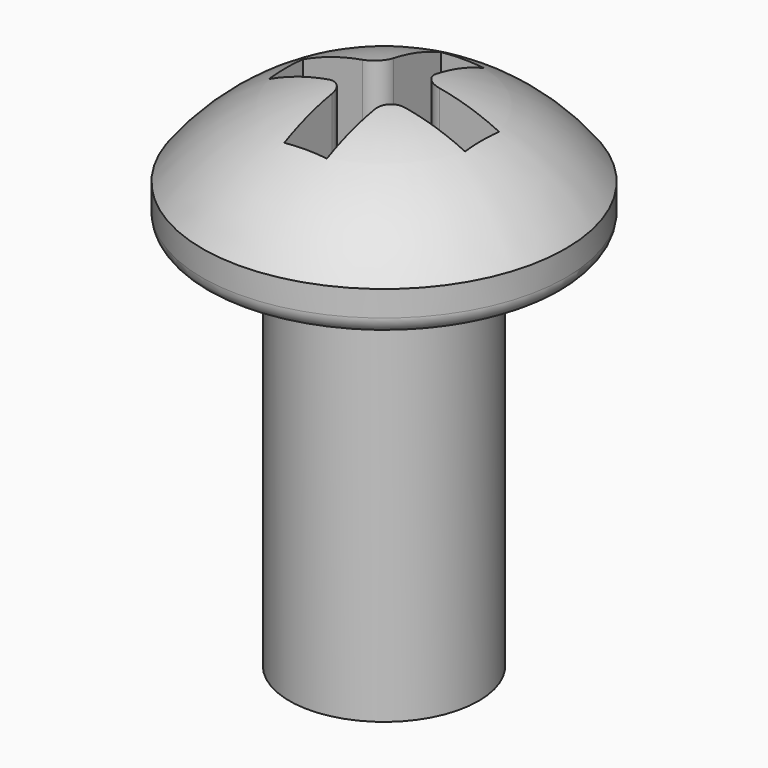
from build123d import *

# Parameters (mm, degrees)
F0_R     = 1.4097
F1_DEPTH = 5.715
F6_DEPTH = 1.6002
F7_R     = 0.254
F8_R     = 0.254


with BuildPart() as f1:
    # F0 (on Top) → F1 (new body)
    with BuildSketch(Plane.XY):
        Circle(F0_R)
    extrude(amount=F1_DEPTH)

    # F2 (on Right) → F3 (revolve)
    with BuildSketch(Plane.YZ):
        with BuildLine():
            Line((-2.7051, 5.715), (0, 5.715))
            Line((0, 5.715), (0, 7.6962))
            ThreePointArc((0, 7.6962), (-1.51078, 7.341052), (-2.7051, 6.35))
            Line((-2.7051, 6.35), (-2.7051, 5.715))
        make_face()
    revolve(axis=Axis((0, 0, 6.7056), (0, 0, 1)))

    # F5 (on offset) → F6 (cut)
    with BuildSketch(Plane.XY.offset(7.747)):
        Polygon((-1.4605, 0.3175), (-1.4605, -0.3175), (-0.3175, -0.3175), (-0.3175, -1.4605), (0.3175, -1.4605), (0.3175, -0.3175), (1.4605, -0.3175), (1.4605, 0.3175), (0.3175, 0.3175), (0.3175, 1.4605), (-0.3175, 1.4605), (-0.3175, 0.3175), align=None)
    extrude(amount=-F6_DEPTH, mode=Mode.SUBTRACT)

    # F7
    f7_edges = [f1.edges().sort_by_distance(p)[0] for p in [
        (-0.3175, -0.3175, 6.90657),
        (-0.3175, 0.3175, 6.90657),
        (0.3175, 0.3175, 6.90657),
        (0.3175, -0.3175, 6.90657),
    ]]
    fillet(f7_edges, radius=F7_R)

    # F8
    f8_edges = [f1.edges().sort_by_distance(p)[0] for p in [
        (0, 2.7051, 5.715),
    ]]
    fillet(f8_edges, radius=F8_R)


solid = f1.part
